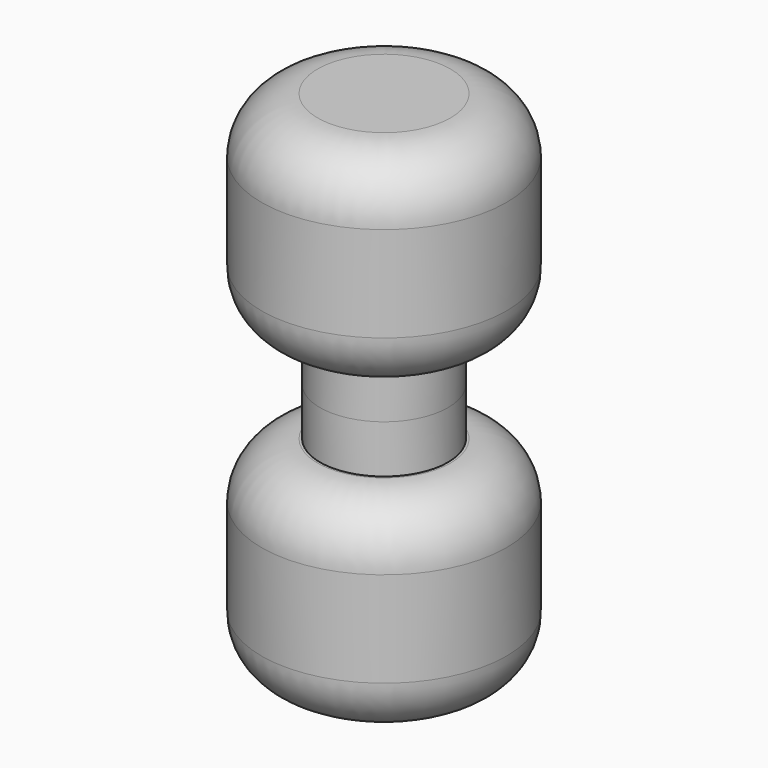
from build123d import *

# Parameters (mm, degrees)
F0_R     = 38.812188294
F1_DEPTH = 65.786
F2_R     = 20.2814830759
F3_DEPTH = 15.24
F5_R     = 17.78


with BuildPart() as f1:
    # F0 (on Top) → F1 (new body)
    with BuildSketch(Plane.XY):
        Circle(F0_R)
    extrude(amount=F1_DEPTH)

    # F2 (on face) → F3 (join)
    with BuildSketch(Plane.XY.offset(65.786)):
        Circle(F2_R)
    extrude(amount=F3_DEPTH)

    # F4: F1 across face


with BuildPart() as f1_1:
    add(f1.part)
    add(f1.part.mirror(Plane.XY.offset(81.026)))

    # F5
    f5_edges = [f1_1.edges().sort_by_distance(p)[0] for p in [
        (38.812188, 0, 129.159),
        (-38.812188, 0, 162.052),
        (-38.812188, 0, 96.266),
        (38.812188, 0, 32.893),
        (-38.812188, 0, 0),
        (-38.812188, 0, 65.786),
    ]]
    fillet(f5_edges, radius=F5_R)


solid = f1_1.part
